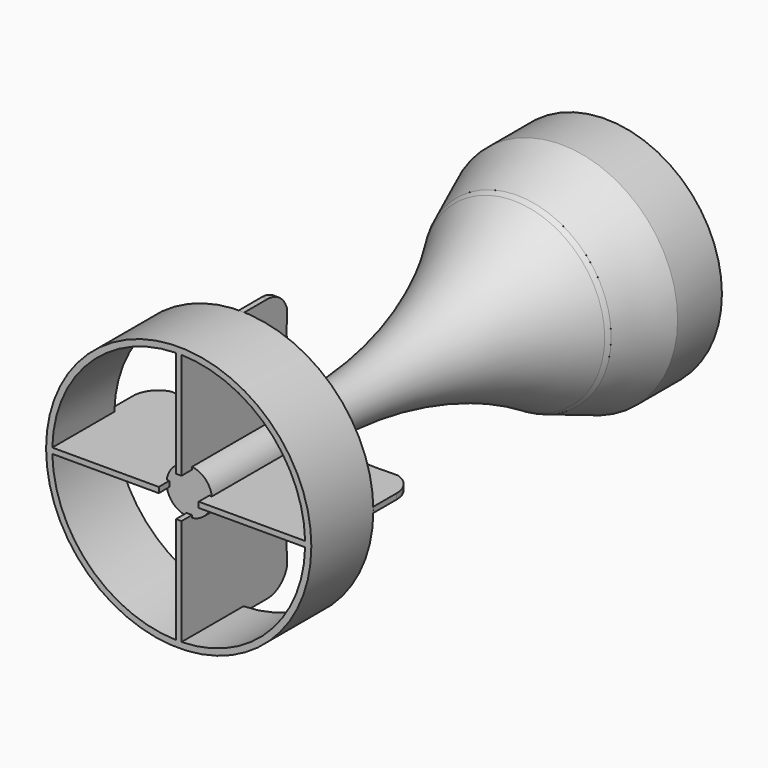
from build123d import *

# Parameters (mm, degrees)
SKETCH_R           = 21
PAD_DEPTH          = 10
SKETCH001_R        = 21
SKETCH002_R        = 17
PAD001_DEPTH       = 0.5
POLARPATTERN_COUNT = 4
SKETCH005_R        = 23.954811
SKETCH005_R_2      = 22.835842
PAD002_DEPTH       = 14


with BuildPart() as part:
    # Sketch → Pad (new body)
    with BuildSketch(Plane.XZ):
        Circle(SKETCH_R)
        with BuildLine():
            Line((6.18034, 19.02113), (-6.18034, 19.02113))
            ThreePointArc((-6.18034, 19.02113), (-11.755705, 16.18034), (-16.18034, 11.755705))
            Line((-16.18034, 11.755705), (-20, 0))
            ThreePointArc((-20, 0), (-19.02113, -6.18034), (-16.18034, -11.755705))
            Line((-16.18034, -11.755705), (-6.18034, -19.02113))
            ThreePointArc((-6.18034, -19.02113), (0, -20), (6.18034, -19.02113))
            Line((6.18034, -19.02113), (16.18034, -11.755705))
            ThreePointArc((16.18034, -11.755705), (19.02113, -6.18034), (20, 0))
            Line((20, 0), (16.18034, 11.755705))
            ThreePointArc((16.18034, 11.755705), (11.755705, 16.18034), (6.18034, 19.02113))
        make_face(mode=Mode.SUBTRACT)
    extrude(amount=PAD_DEPTH)

    # Sketch001 (on Face13 of Pad) → AdditiveLoft section 0
    with BuildSketch(Plane.XZ.offset(10)):
        Circle(SKETCH001_R)
    # Sketch002 → AdditiveLoft section 1
    with BuildSketch(Plane.XZ.offset(20)):
        Circle(SKETCH002_R)
    loft()

    # Sketch003 → Revolution (revolve)
    with BuildSketch(Plane.XY):
        with BuildLine():
            Line((16.998693, -20), (16.489351, -20.822958))
            ThreePointArc((16.489351, -20.822958), (7.256265, -41.741824), (4.098253, -64.388585))
            Line((4.098253, -64.388585), (4.098253, -94))
            Line((0.009094, -94), (4.098253, -94))
            Line((0.009094, -94), (0.009094, -20))
            Line((16.998693, -20), (0.009094, -20))
        make_face()
    revolve(axis=Axis((0, 0, 0), (0, 1, 0)))

    # Sketch004 → Pad001 (join, symmetric)
    with BuildSketch(Plane.XY):
        with BuildLine():
            Line((3.60235, -66.598502), (3.60235, -96.390258))
            Line((3.60235, -96.390258), (23.808649, -96.390258))
            Line((23.808649, -96.390258), (23.808649, -76.972579))
            ThreePointArc((23.808649, -76.972579), (22.89753, -74.225988), (20.525464, -72.568519))
            add(Edge.make_bspline(
                [(3.60235, -66.598502), (3.944884, -63.195769), (5.548584, -69.660769), (7.152286, -71.314691), (12.786635, -72.897977), (20.525464, -72.568519)],
                knots=[0, 0, 0, 0, 0.333333, 0.666667, 1, 1, 1, 1], degree=3, weights=[1, 1, 0.999999, 0.999801, 1.000445, 1.000914]))
        make_face()
    pad001 = extrude(amount=PAD001_DEPTH, both=True)

    # PolarPattern: Pad001 ×4 about axis
    polarpattern_axis = Axis((0, 0, 0), (0, 1, 0))
    for i in range(1, POLARPATTERN_COUNT):
        add(pad001.rotate(polarpattern_axis, i * 360 / POLARPATTERN_COUNT))

    # Sketch005 (on Face45 of PolarPattern) → Pad002 (join)
    with BuildSketch(Plane.XZ.offset(96.390258)):
        Circle(SKETCH005_R)
        Circle(SKETCH005_R_2, mode=Mode.SUBTRACT)
    extrude(amount=-PAD002_DEPTH)


solid = part.part
